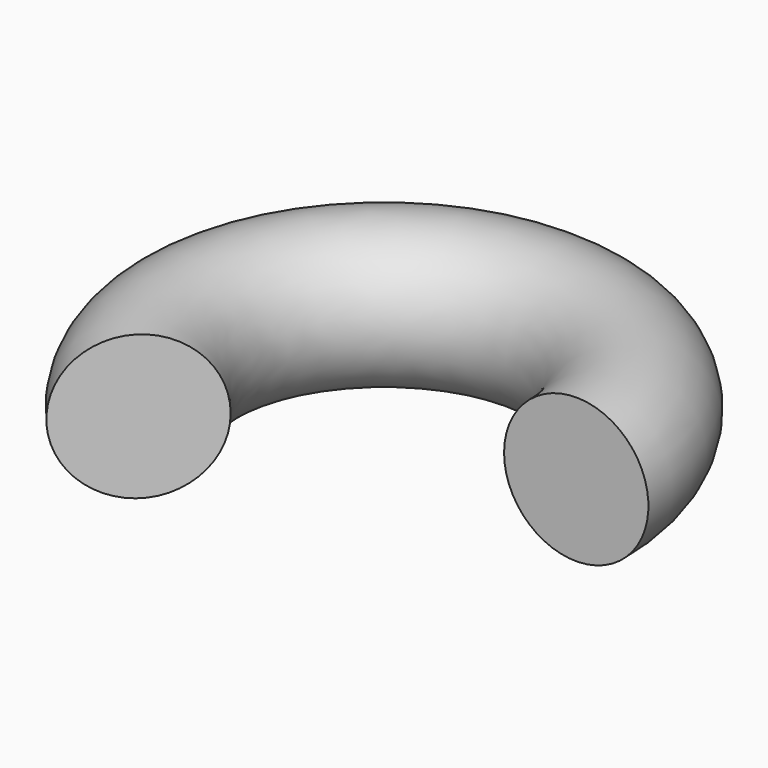
from build123d import *

# Parameters (mm, degrees)
F2_R = 10


with BuildPart() as f3:
    # F3: sweep along a path in F0
    with BuildLine(Plane.XY) as f3_path:
        ThreePointArc((40, 0), (-14.565618, 37.253762), (-29.392139, -27.131203))
    # F2 (on face) → F3 (sweep)
    with BuildSketch(Plane(origin=(0, 0, 0), x_dir=(-1, 0, 0), z_dir=(0, 1, 0))):
        with Locations((-26.632718, 0)):
            Circle(F2_R)
    sweep(path=f3_path.line)


solid = f3.part
